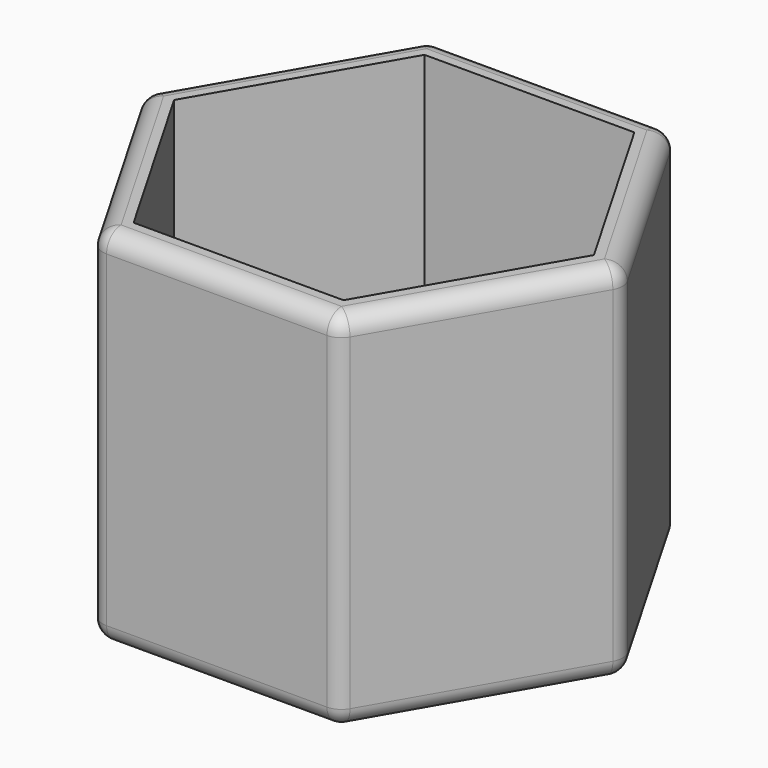
from build123d import *

# Parameters (mm, degrees)
F1_DEPTH = 101.6
F2_DEPTH = 7.62
F3_R     = 5.08


with BuildPart() as f1:
    # F0 (on Top) → F1 (new body)
    with BuildSketch(Plane.XY):
        Polygon((33.728803, 58.42), (0, 58.42), (-33.728803, 58.42), (-67.457605, 0), (-33.728803, -58.42), (33.728803, -58.42), (67.457605, 0), align=None)
        Polygon((-58.658787, 0), (-29.329394, 50.8), (0, 50.8), (29.329394, 50.8), (58.658787, 0), (29.329394, -50.8), (-29.329394, -50.8), align=None, mode=Mode.SUBTRACT)
    extrude(amount=F1_DEPTH)

    # F0 (on Top) → F2 (join)
    with BuildSketch(Plane.XY):
        Polygon((0, 50.8), (-29.329394, 50.8), (-58.658787, 0), (-29.329394, -50.8), (29.329394, -50.8), (58.658787, 0), (29.329394, 50.8), align=None)
    extrude(amount=F2_DEPTH)

    # F3
    f3_edges = [f1.edges().sort_by_distance(p)[0] for p in [
        (33.728803, 58.42, 50.8),
        (0, 58.42, 101.6),
        (-33.728803, 58.42, 50.8),
        (0, 58.42, 0),
        (-67.457605, 0, 50.8),
        (-50.593204, 29.21, 0),
        (-50.593204, 29.21, 101.6),
        (-33.728803, -58.42, 50.8),
        (-50.593204, -29.21, 0),
        (-50.593204, -29.21, 101.6),
        (33.728803, -58.42, 50.8),
        (0, -58.42, 0),
        (0, -58.42, 101.6),
        (67.457605, 0, 50.8),
        (50.593204, 29.21, 0),
        (50.593204, 29.21, 101.6),
        (50.593204, -29.21, 0),
        (50.593204, -29.21, 101.6),
    ]]
    fillet(f3_edges, radius=F3_R)


solid = f1.part
